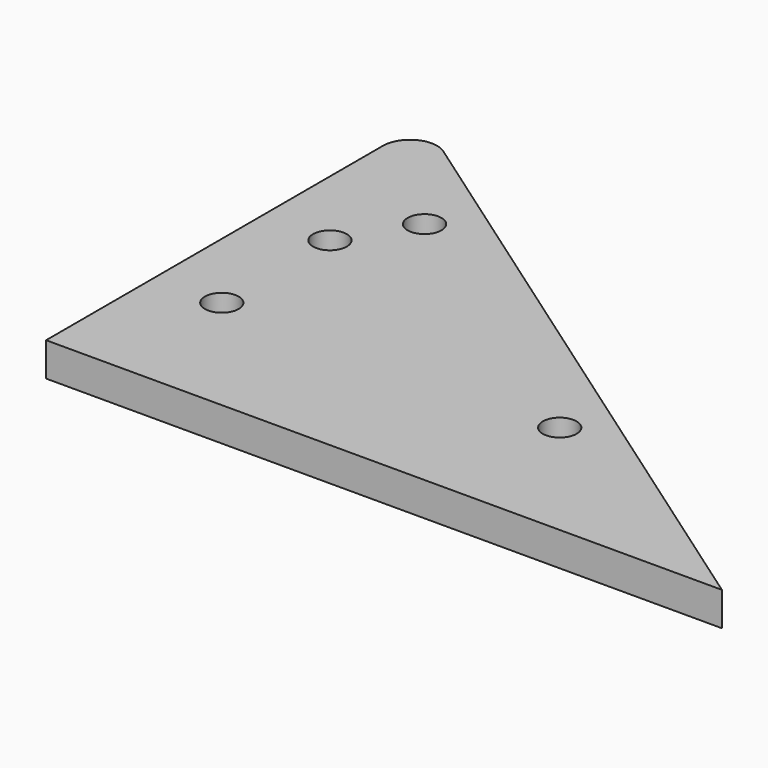
from build123d import *

# Parameters (mm, degrees)
F0_R     = 3.175
F1_DEPTH = 6.35


with BuildPart() as f1:
    # F0 (on Top) → F1 (new body)
    with BuildSketch(Plane.XY):
        with BuildLine():
            ThreePointArc((7.993189, 83.304768), (2.734003, 83.648921), (0, 79.14307))
            Line((0, 79.14307), (0, 0))
            Line((0, 0), (127, 0))
            Line((127, 0), (7.993189, 83.304768))
        make_face()
        with Locations((12.7, 25.4)):
            Circle(F0_R, mode=Mode.SUBTRACT)
        with Locations((76.2, 25.4)):
            Circle(F0_R, mode=Mode.SUBTRACT)
        with Locations((12.7, 50.8)):
            Circle(F0_R, mode=Mode.SUBTRACT)
        with Locations((20.32, 63.5)):
            Circle(F0_R, mode=Mode.SUBTRACT)
    extrude(amount=F1_DEPTH)


solid = f1.part
